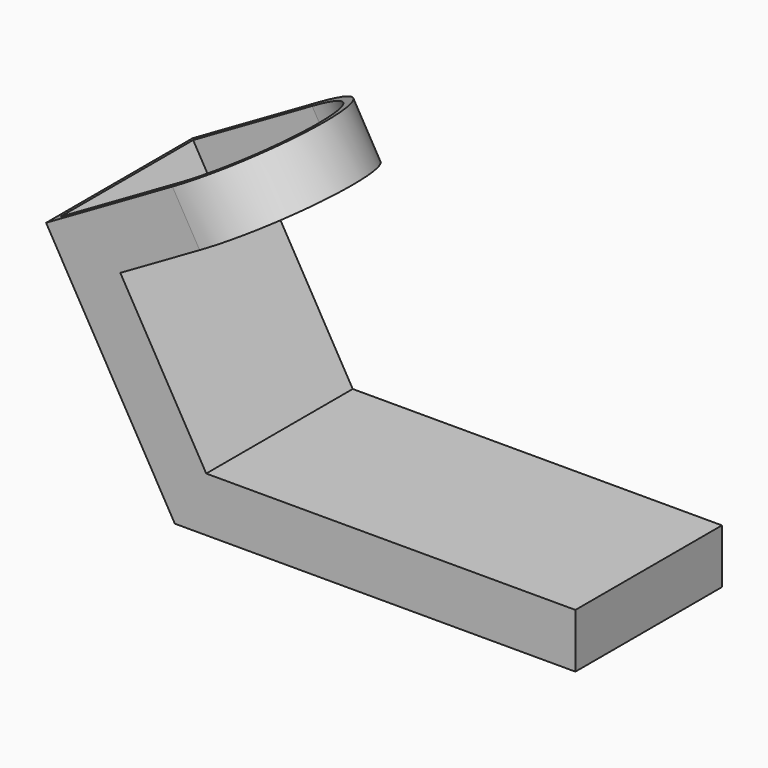
from build123d import *

# Parameters (mm, degrees)
F2_DEPTH = 64
F4_DEPTH = 19
F5_T     = -3
F6_R     = 9.5
F7_DEPTH = 3


with BuildPart() as f2:
    # F1 (on Front) → F2 (new body)
    with BuildSketch(Plane.XZ):
        Polygon((0, 0), (140, 0), (140, 19), (10.9696551146, 19), (-19.0455173281, 70.9878036687), (64.0929214352, 118.9878036687), (54.5929214352, 135.4422863406), (-45, 77.9422863406), align=None)
    extrude(amount=F2_DEPTH)

    # F3 (on face) → F4 (cut, through all)
    with BuildSketch(Plane(origin=(-45, 0, 77.9422863406), x_dir=(0.8660254038, 0, 0.5), z_dir=(-0.5, 0, 0.8660254038))):
        with BuildLine():
            ThreePointArc((51, 0), (83, -32), (51, -64))
            Line((51, -64), (115, -64))
            Line((115, -64), (115, 0))
            Line((115, 0), (51, 0))
        make_face()
    extrude(amount=-F4_DEPTH, mode=Mode.SUBTRACT)

    # F5
    f5_openings = [f2.faces().sort_by_distance(p)[0] for p in [
        (-11.74342, -32, 97.142982),
    ]]
    offset(amount=F5_T, openings=f5_openings, kind=Kind.INTERSECTION)

    # F6 (on face) → F7 (cut, through all)
    with BuildSketch(Plane(origin=(-37, 0, 64.08587988), x_dir=(0.8660254038, 0, 0.5), z_dir=(-0.5, 0, 0.8660254038))):
        with Locations((51.0000000002, -32)):
            Circle(F6_R)
    extrude(amount=-F7_DEPTH, mode=Mode.SUBTRACT)


solid = f2.part
